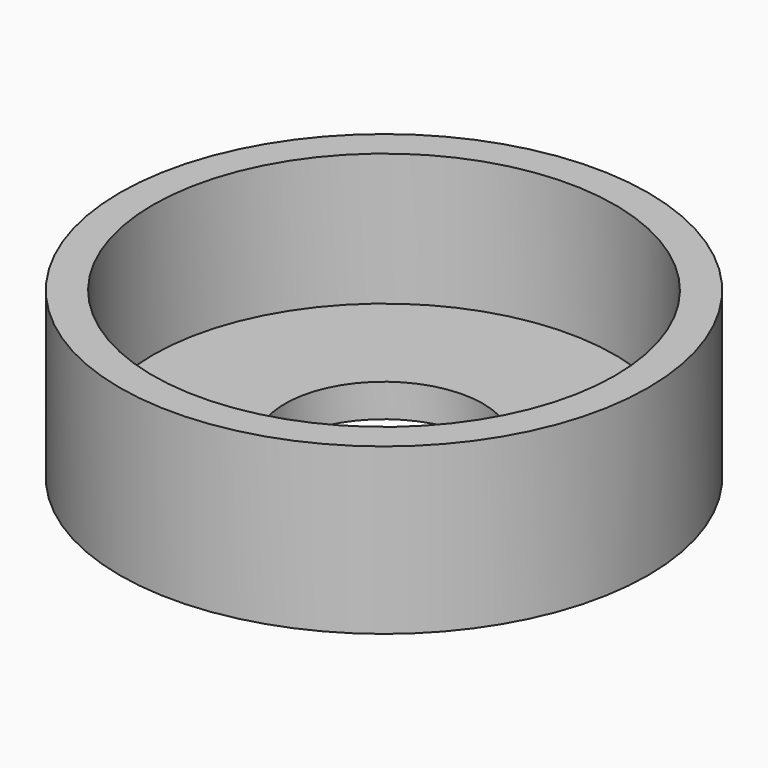
from build123d import *

# Parameters (mm, degrees)
CYLINDER002_R     = 6
CYLINDER002_DEPTH = 10
CYLINDER_R        = 14
CYLINDER_DEPTH    = 13
CYLINDER001_R     = 16
CYLINDER001_DEPTH = 10


with BuildPart() as cylinder002:
    # Cylinder002 → Cylinder002 (new body)
    with BuildSketch(Plane.XY):
        Circle(CYLINDER002_R)
    extrude(amount=CYLINDER002_DEPTH)


with BuildPart() as cylinder:
    # Cylinder → Cylinder (new body)
    with BuildSketch(Plane.XY.offset(2)):
        Circle(CYLINDER_R)
    extrude(amount=CYLINDER_DEPTH)


with BuildPart() as cut001:
    # Cylinder001 → Cylinder001 (new body)
    with BuildSketch(Plane.XY):
        Circle(CYLINDER001_R)
    extrude(amount=CYLINDER001_DEPTH)

    # Cut: cut Cylinder
    add(cylinder.part, mode=Mode.SUBTRACT)

    # Cut001: cut Cylinder002
    add(cylinder002.part, mode=Mode.SUBTRACT)


solid = cut001.part
